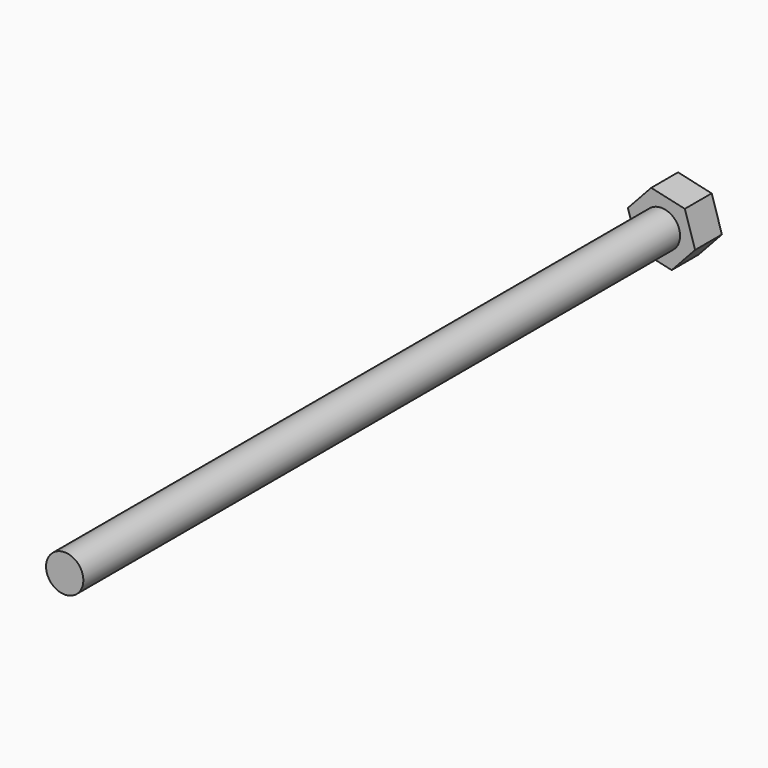
from build123d import *

# Parameters (mm, degrees)
F0_R     = 1.5
F1_DEPTH = 60
F2_DEPTH = 2.7


with BuildPart() as f1:
    # F0 (on Front) → F1 (new body)
    with BuildSketch(Plane.XZ):
        Circle(F0_R)
    extrude(amount=F1_DEPTH)

    # F0 (on Front) → F2 (join)
    with BuildSketch(Plane.XZ):
        Polygon((-0.82392, 2.64597), (-2.703437, 0.609449), (-1.879517, -2.03652), (0.82392, -2.64597), (2.703437, -0.609449), (1.879517, 2.03652), align=None)
        Circle(F0_R, mode=Mode.SUBTRACT)
        Circle(F0_R)
    extrude(amount=-F2_DEPTH)


solid = f1.part
